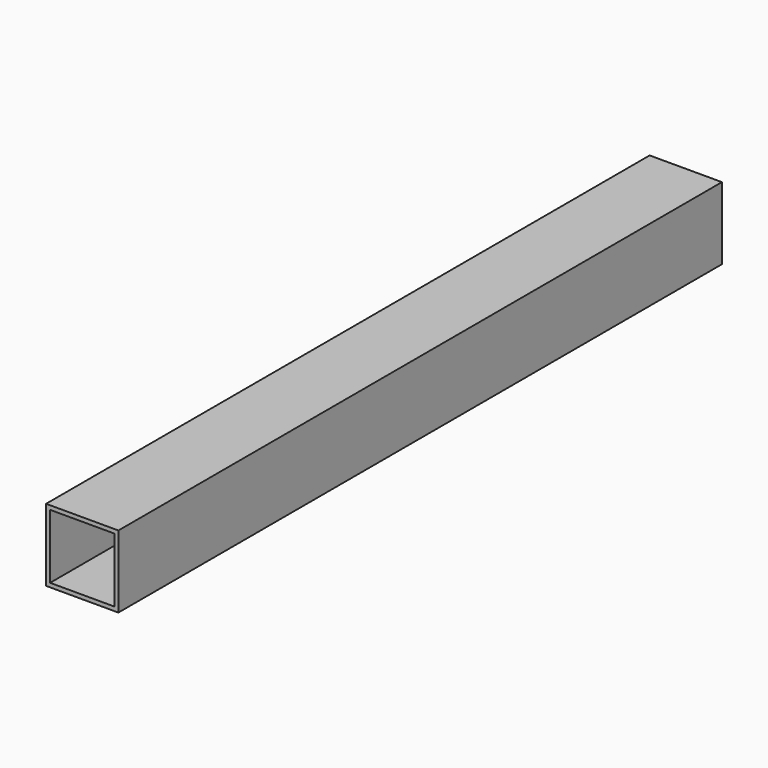
from build123d import *

# Parameters (mm, degrees)
F0_W     = 28.75
F0_H     = 28.75
F1_DEPTH = 300
F2_T     = -1.6


with BuildPart() as f1:
    # F0 (on Front) → F1 (new body)
    with BuildSketch(Plane.XZ):
        Rectangle(F0_W, F0_H)
    extrude(amount=F1_DEPTH)

    # F2
    f2_openings = [f1.faces().sort_by_distance(p)[0] for p in [
        (0, 0, 0),
        (0, -300, 0),
    ]]
    offset(amount=F2_T, openings=f2_openings)


solid = f1.part
